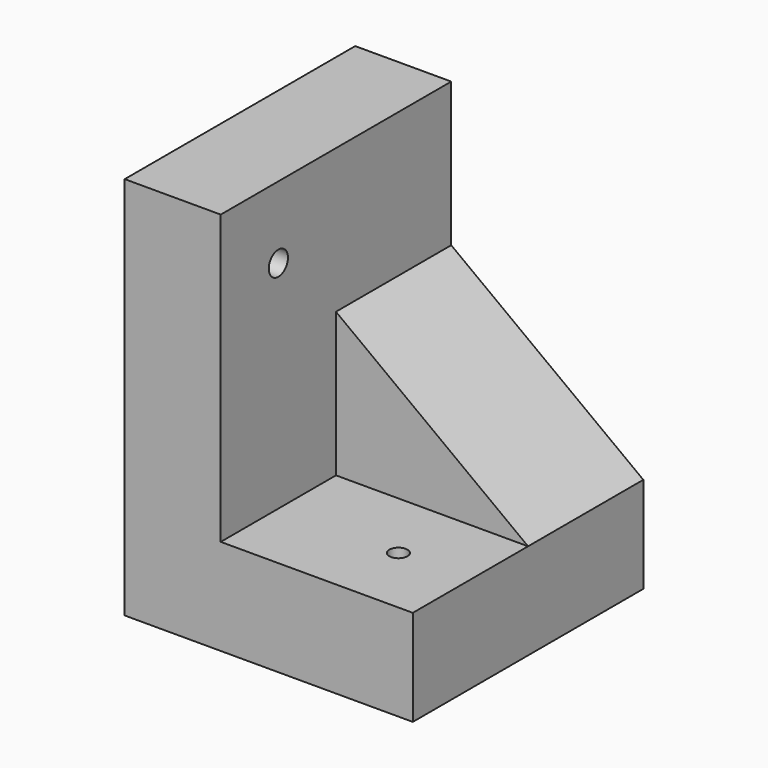
from build123d import *

# Parameters (mm, degrees)
F1_DEPTH = 152.4
F2_W     = 101.6
F2_H     = 76.2
F3_DEPTH = 76.2
F5_DEPTH = 76.2
F7_D     = 9.525
F9_D     = 12.7


with BuildPart() as f1:
    # F0 (on Front) → F1 (new body)
    with BuildSketch(Plane.XZ):
        Polygon((-15.285381, 141.984368), (-66.085381, 141.984368), (-66.085381, -61.215632), (86.314619, -61.215632), (86.314619, -10.415632), (-15.285381, -10.415632), align=None)
    extrude(amount=F1_DEPTH)

    # F2 (on face) → F3 (join)
    with BuildSketch(Plane.XY.offset(-10.415632)):
        with Locations((35.514619, -38.1)):
            Rectangle(F2_W, F2_H)
    extrude(amount=F3_DEPTH)

    # F4 (on face) → F5 (cut)
    with BuildSketch(Plane.XZ.offset(76.2)):
        Polygon((86.314619, 65.784368), (-15.285381, 65.784368), (86.314619, -10.415632), align=None)
    extrude(amount=-F5_DEPTH, mode=Mode.SUBTRACT)

    # F7 (through all)
    with Locations(Plane.XY.offset(-10.415632)):
        with Locations((48.214619, -114.3)):
            Hole(F7_D / 2)

    # F9 (through all)
    with Locations(Plane.YZ.offset(-15.285381)):
        with Locations((-114.3, 103.884368)):
            Hole(F9_D / 2)


solid = f1.part
